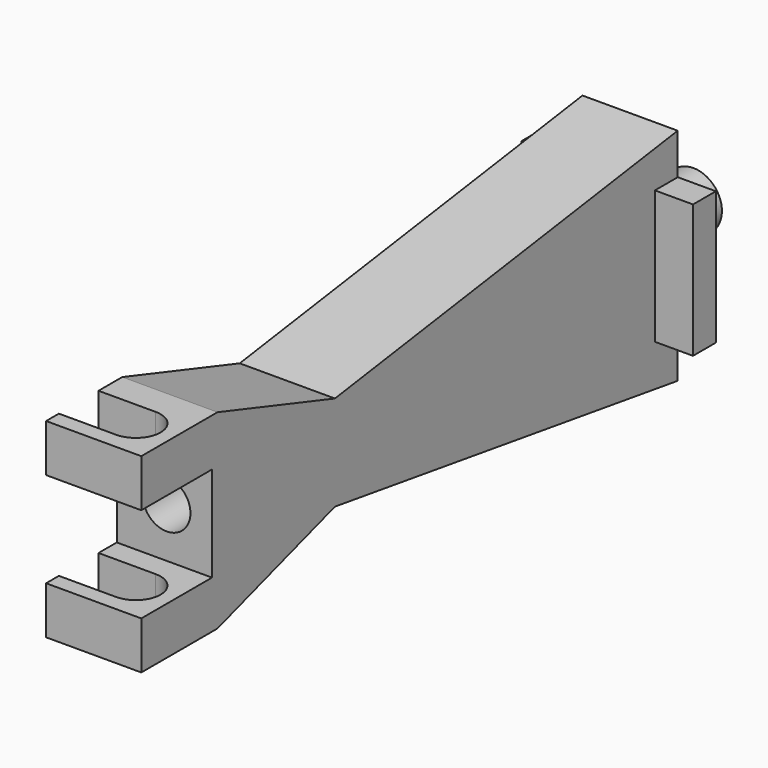
from build123d import *

# Parameters (mm, degrees)
PAD017_DEPTH    = 10
SKETCH043_R     = 2.5
HOLE004_DEPTH   = 74.4118637621
POCKET018_DEPTH = 21.6598644736
SKETCH071_R     = 3
PAD030_DEPTH    = 8
SKETCH072_R     = 2.5
POCKET034_DEPTH = 8
SKETCH073_W     = 3
SKETCH073_H     = 14
PAD031_DEPTH    = 4
SKETCH074_W     = 3
SKETCH074_H     = 14
PAD032_DEPTH    = 4


with BuildPart() as part:
    # Sketch041 → Pad017 (new body)
    with BuildSketch(Plane.YZ):
        Polygon((-9.2823155717, -17.4697729947), (-9.2823155717, -22.4697729947), (0, -22.4697729947), (0, -32.4697729947), (-9.2823155717, -32.4697729947), (-9.2823155717, -37.4697729947), (0.718202267, -37.4697729947), (16.14, -32.4697729947), (61.14, -39.1286374683), (61.14, -15.9992606277), (16.14, -22.4697729947), (0.718202267, -17.4697729947), align=None)
    extrude(amount=PAD017_DEPTH)

    # Sketch043 → Hole004 (cut, through all)
    with BuildSketch(Plane.ZX.offset(65.1285481904)):
        with Locations((-27.248053, 5.238883)):
            Circle(SKETCH043_R)
    extrude(amount=-HOLE004_DEPTH, mode=Mode.SUBTRACT)

    # Sketch044 (on Face2 of Hole004) → Pocket018 (cut, through all)
    with BuildSketch(Plane(origin=(0, 0, -17.4697729947), x_dir=(0, -1, 0), z_dir=(0, 0, 1))):
        with BuildLine():
            ThreePointArc((2.4, -6.9475921725), (5, -9.5475921725), (7.6, -6.9475921725))
            Line((7.6, -6.9475921725), (7.6, 6))
            ThreePointArc((7.6, 6), (5.0000000001, 8.6), (2.4, 6.0000000001))
            Line((2.4, -6.9475921725), (2.4, 6.0000000001))
        make_face()
    extrude(amount=-POCKET018_DEPTH, mode=Mode.SUBTRACT)

    # Sketch071 (on Face17 of Pocket018) → Pad030 (join)
    with BuildSketch(Plane.ZX.offset(61.14)):
        with Locations((-27.24572, 5.247846)):
            Circle(SKETCH071_R)
    extrude(amount=PAD030_DEPTH)

    # Sketch072 (on Face26 of Pad030) → Pocket034 (cut)
    with BuildSketch(Plane.ZX.offset(69.14)):
        with Locations((-27.257469, 5.237027)):
            Circle(SKETCH072_R)
    extrude(amount=-POCKET034_DEPTH, mode=Mode.SUBTRACT)

    # Sketch073 (on Face6 of Pocket034) → Pad031 (join)
    with BuildSketch(Plane(origin=(0, 0, 0), x_dir=(0, 1, 0), z_dir=(-1, 0, 0))):
        with Locations((59.6559768039, 27.292839)):
            Rectangle(SKETCH073_W, SKETCH073_H)
    extrude(amount=PAD031_DEPTH)

    # Sketch074 (on Face5 of Pad031) → Pad032 (join)
    with BuildSketch(Plane.YZ.offset(10)):
        with Locations((59.6497417125, -27.3033236781)):
            Rectangle(SKETCH074_W, SKETCH074_H)
    extrude(amount=PAD032_DEPTH)


with BuildPart() as part_1:
    # Body007 placement: moved
    add(part.part.moved(Location((0, -4, -37))))


solid = part_1.part
